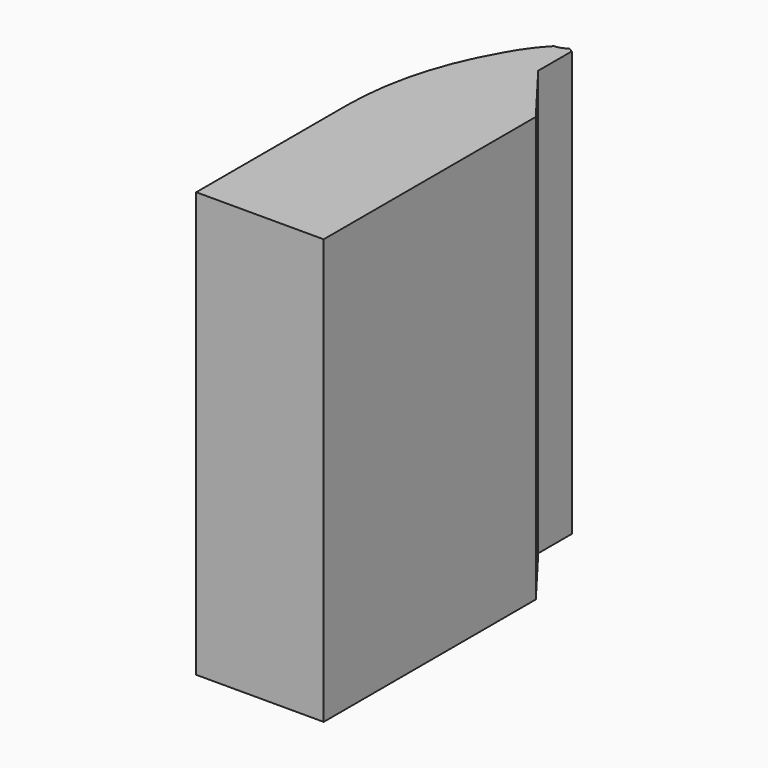
from build123d import *

# Parameters (mm, degrees)
F1_DEPTH = 800


with BuildPart() as f1:
    # F0 (on Top) → F1 (new body)
    with BuildSketch(Plane.XY):
        Polygon((-89.048881, 0), (0, 0), (0, 499.227196), (-89.048881, 616.271885), align=None)
        Polygon((-98.031923, 0), (-89.048881, 0), (-89.048881, 616.271885), (-89.048881, 695.234752), (-98.031923, 700), (-98.031923, 699.936681), align=None)
        with BuildLine():
            Line((-120, 0), (-98.031923, 0))
            Line((-98.031923, 0), (-98.031923, 699.936681))
            ThreePointArc((-98.031923, 699.936681), (-108.294154, 693.949508), (-120, 691.916585))
            Line((-120, 691.916585), (-120, 0))
        make_face()
        with BuildLine():
            Line((-240, 0), (-120, 0))
            Line((-120, 0), (-120, 691.916585))
            ThreePointArc((-120, 691.916585), (-145.462987, 661.509664), (-166.336656, 627.786756))
            ThreePointArc((-166.336656, 627.786756), (-220.911757, 496.452626), (-240, 355.517413))
            Line((-240, 355.517413), (-240, 350))
            Line((-240, 350), (-240, 0))
        make_face()
        with BuildLine():
            ThreePointArc((-240, 355.517413), (-240.006916, 352.758707), (-240, 350))
            Line((-240, 350), (-240, 355.517413))
        make_face()
    extrude(amount=F1_DEPTH)


solid = f1.part
